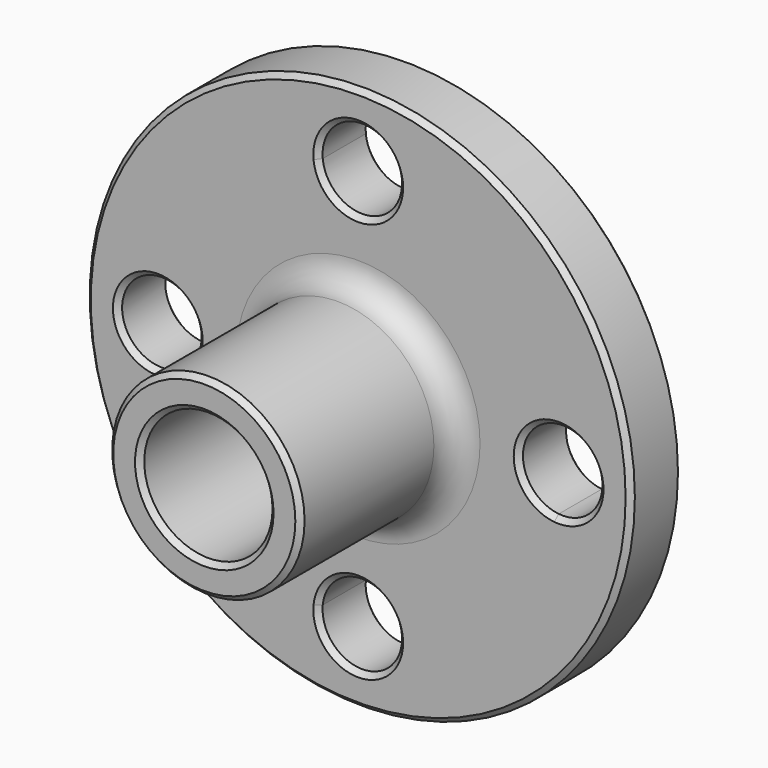
from build123d import *

# Parameters (mm, degrees)
F0_R     = 53.975
F0_R_2   = 19.05
F0_R_3   = 12.7
F1_DEPTH = 12.7
F2_DEPTH = 50.8
F3_R     = 5.08
F4_SIZE  = 1.016


with BuildPart() as f1:
    # F0 (on Front) → F1 (new body)
    with BuildSketch(Plane.XZ):
        Circle(F0_R)
        with BuildLine():
            ThreePointArc((7.835162, 38.906399), (28.0633, 28.0633), (38.906399, 7.835162))
            ThreePointArc((38.906399, 7.835162), (44.971887, 5.837391), (47.5615, 0))
            ThreePointArc((47.5615, 0), (44.971887, -5.837391), (38.906399, -7.835162))
            ThreePointArc((38.906399, -7.835162), (28.0633, -28.0633), (7.835162, -38.906399))
            ThreePointArc((7.835162, -38.906399), (7.864284, -39.296467), (7.874, -39.6875))
            ThreePointArc((7.874, -39.6875), (-0.391033, -47.551784), (-7.835162, -38.906399))
            ThreePointArc((-7.835162, -38.906399), (-28.0633, -28.0633), (-38.906399, -7.835162))
            ThreePointArc((-38.906399, -7.835162), (-47.5615, 0), (-38.906399, 7.835162))
            ThreePointArc((-38.906399, 7.835162), (-28.0633, 28.0633), (-7.835162, 38.906399))
            ThreePointArc((-7.835162, 38.906399), (-0.391033, 47.551784), (7.874, 39.6875))
            ThreePointArc((7.874, 39.6875), (7.864284, 39.296467), (7.835162, 38.906399))
        make_face(mode=Mode.SUBTRACT)
        with BuildLine():
            ThreePointArc((38.906399, -7.835162), (31.8135, 0), (38.906399, 7.835162))
            ThreePointArc((38.906399, 7.835162), (28.0633, 28.0633), (7.835162, 38.906399))
            ThreePointArc((7.835162, 38.906399), (0, 31.8135), (-7.835162, 38.906399))
            ThreePointArc((-7.835162, 38.906399), (-28.0633, 28.0633), (-38.906399, 7.835162))
            ThreePointArc((-38.906399, 7.835162), (-33.850109, 5.284387), (-31.8135, 0))
            ThreePointArc((-31.8135, 0), (-33.850109, -5.284387), (-38.906399, -7.835162))
            ThreePointArc((-38.906399, -7.835162), (-28.0633, -28.0633), (-7.835162, -38.906399))
            ThreePointArc((-7.835162, -38.906399), (0, -31.8135), (7.835162, -38.906399))
            ThreePointArc((7.835162, -38.906399), (28.0633, -28.0633), (38.906399, -7.835162))
        make_face()
        Circle(F0_R_2, mode=Mode.SUBTRACT)
        Circle(F0_R_2)
        Circle(F0_R_3, mode=Mode.SUBTRACT)
    extrude(amount=F1_DEPTH)

    # F0 (on Front) → F2 (join)
    with BuildSketch(Plane.XZ):
        Circle(F0_R_2)
        Circle(F0_R_3, mode=Mode.SUBTRACT)
    extrude(amount=F2_DEPTH)

    # F3
    f3_edges = [f1.edges().sort_by_distance(p)[0] for p in [
        (-19.05, -12.7, 0),
    ]]
    fillet(f3_edges, radius=F3_R)

    # F4
    f4_edges = [f1.edges().sort_by_distance(p)[0] for p in [
        (53.975, -6.35, 0),
        (-53.975, 0, 0),
        (-53.975, -12.7, 0),
        (-40.468601, 0, -7.835162),
        (-38.906399, -6.35, 7.835162),
        (-40.468601, -12.7, -7.835162),
        (-7.835162, -6.35, -38.906399),
        (7.835162, 0, -40.468601),
        (7.835162, -12.7, -40.468601),
        (38.906399, -6.35, -7.835162),
        (40.468601, 0, 7.835162),
        (40.468601, -12.7, 7.835162),
        (7.874, -6.35, 39.6875),
        (-7.874, 0, 39.6875),
        (-7.874, -12.7, 39.6875),
        (-19.05, -50.8, 0),
        (-12.7, 0, 0),
        (12.7, -25.4, 0),
        (-12.7, -50.8, 0),
    ]]
    chamfer(f4_edges, length=F4_SIZE)


solid = f1.part
